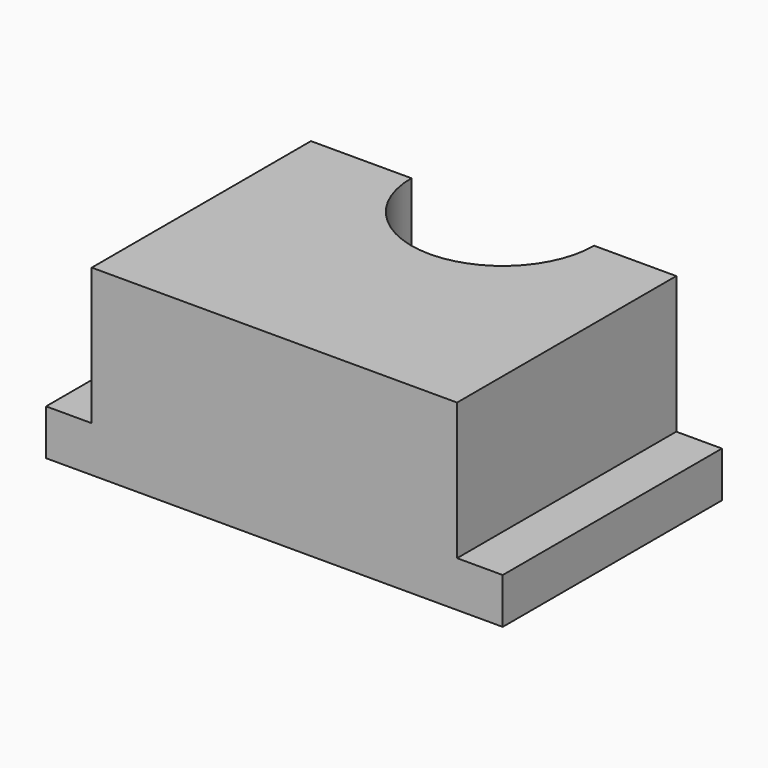
from build123d import *

# Parameters (mm, degrees)
F0_W     = 63.5
F0_H     = 38.1
F1_DEPTH = 25.4
F2_W     = 6.35
F2_H     = 38.1
F3_DEPTH = 19.05
F5_W     = 6.35
F5_H     = 19.05
F6_DEPTH = 38.101
F7_R     = 12.701006
F8_DEPTH = 25.401


with BuildPart() as f1:
    # F0 (on Top) → F1 (new body)
    with BuildSketch(Plane.XY):
        with Locations((-4.211051, 0.752282)):
            Rectangle(F0_W, F0_H)
    extrude(amount=F1_DEPTH)

    # F2 (on face) → F3 (cut)
    with BuildSketch(Plane.XY.offset(25.4)):
        with Locations((-32.786051, 0.752282)):
            Rectangle(F2_W, F2_H)
    extrude(amount=-F3_DEPTH, mode=Mode.SUBTRACT)

    # F5 (on face) → F6 (cut, through all)
    with BuildSketch(Plane(origin=(0, 19.802282, 0), x_dir=(-1, 0, 0), z_dir=(0, 1, 0))):
        with Locations((-24.363949, 15.875)):
            Rectangle(F5_W, F5_H)
    extrude(amount=-F6_DEPTH, mode=Mode.SUBTRACT)

    # F7 (on face) → F8 (cut, through all)
    with BuildSketch(Plane.XY.offset(25.4)):
        with Locations((-2.940286, 19.802282)):
            Circle(F7_R)
    extrude(amount=-F8_DEPTH, mode=Mode.SUBTRACT)


solid = f1.part
